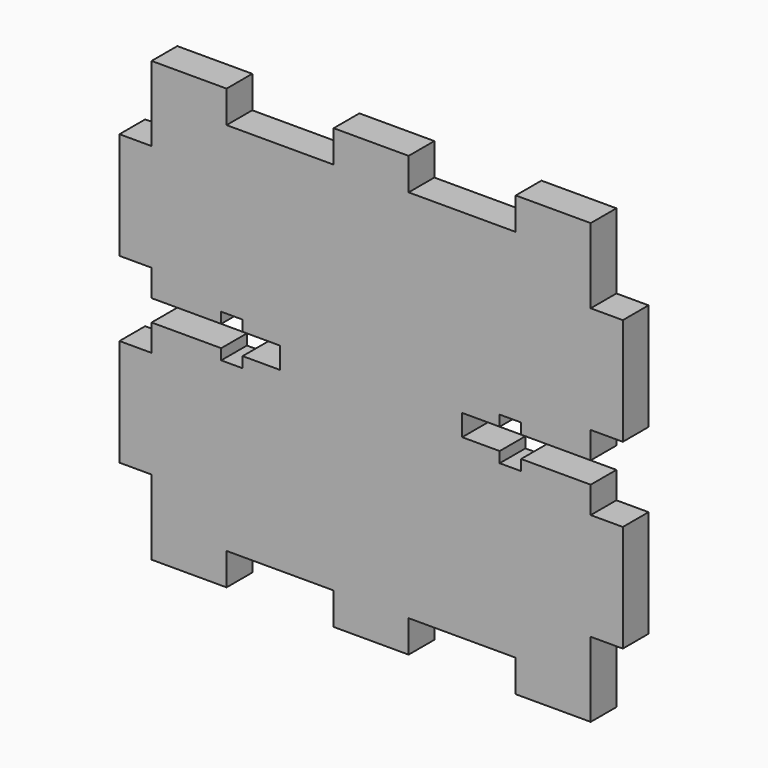
from build123d import *

# Parameters (mm, degrees)
F1_DEPTH = 3


with BuildPart() as f1:
    # F0 (on Front) → F1 (new body)
    with BuildSketch(Plane.XZ):
        Polygon((3, 7), (3, 0), (10, 0), (10, 3), (20, 3), (20, 0), (27, 0), (27, 3), (37, 3), (37, 0), (44, 0), (44, 7), (47, 7), (47, 17), (44, 17), (44, 19.5), (37.5, 19.5), (37.5, 18.5), (35.5, 18.5), (35.5, 19.5), (32, 19.5), (32, 21.5), (35.5, 21.5), (35.5, 22.5), (37.5, 22.5), (37.5, 21.5), (44, 21.5), (44, 24), (47, 24), (47, 34), (44, 34), (44, 41), (37, 41), (37, 38), (27, 38), (27, 41), (23.5, 41), (20, 41), (20, 38), (10, 38), (10, 41), (3, 41), (3, 34), (0, 34), (0, 24), (3, 24), (3, 21.5), (9.5, 21.5), (9.5, 22.5), (11.5, 22.5), (11.5, 21.5), (15, 21.5), (15, 19.5), (11.5, 19.5), (11.5, 18.5), (9.5, 18.5), (9.5, 19.5), (3, 19.5), (3, 17), (0, 17), (0, 7), align=None)
    extrude(amount=F1_DEPTH)


solid = f1.part
